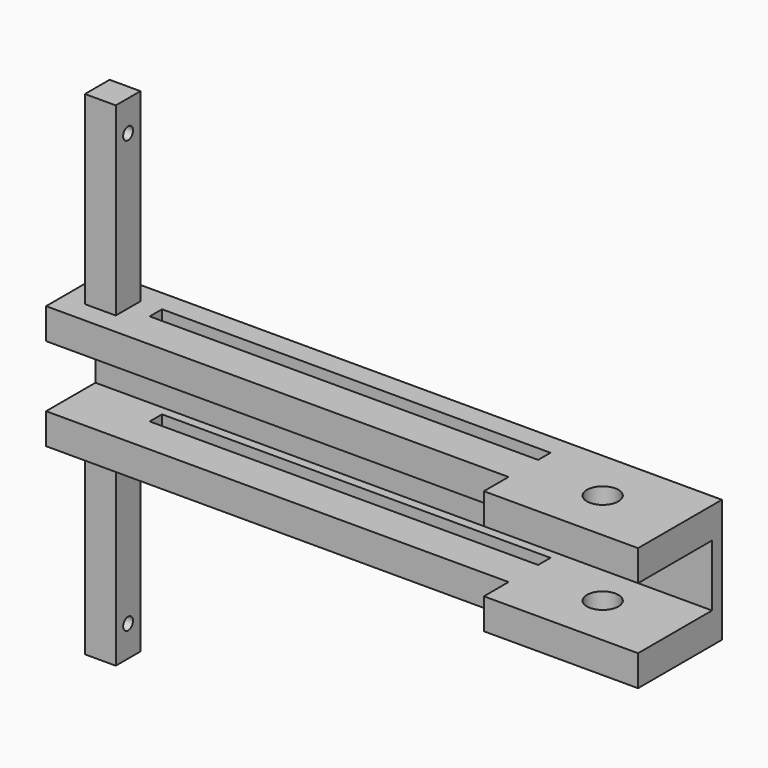
from build123d import *

# Parameters (mm, degrees)
F0_W      = 254
F0_H      = 50.8
F1_DEPTH  = 30.48
F2_W      = 254
F2_H      = 25.4
F3_DEPTH  = 25.4
F4_W      = 12.7
F4_H      = 12.7
F6_DEPTH  = 76.2
F5_W      = 12.7
F5_H      = 12.7
F7_DEPTH  = 76.2
F8_W      = 63.5
F8_H      = 12.7
F10_DEPTH = 12.7
F9_W      = 63.5
F9_H      = 12.7
F11_DEPTH = 12.7
F12_W     = 160.02
F12_H     = 6.35
F14_DEPTH = 127.001
F13_R     = 6.477
F15_DEPTH = 127.001
F16_R     = 2.54
F18_DEPTH = 25.4
F17_R     = 2.54
F19_DEPTH = 25.4


with BuildPart() as f1:
    # F0 (on Front) → F1 (new body)
    with BuildSketch(Plane.XZ):
        with Locations((-4.6371974824, 18.0667741224)):
            Rectangle(F0_W, F0_H)
    extrude(amount=F1_DEPTH)

    # F2 (on face) → F3 (cut)
    with BuildSketch(Plane.XZ.offset(30.48)):
        with Locations((-4.6371974824, 18.0667741224)):
            Rectangle(F2_W, F2_H)
    extrude(amount=-F3_DEPTH, mode=Mode.SUBTRACT)

    # F4 (on face) → F6 (join)
    with BuildSketch(Plane(origin=(0, 0, -7.3332258776), x_dir=(1, 0, 0), z_dir=(0, 0, -1))):
        with Locations((-116.3971974824, 15.24)):
            Rectangle(F4_W, F4_H)
    extrude(amount=F6_DEPTH)

    # F5 (on face) → F7 (join)
    with BuildSketch(Plane.XY.offset(43.4667741224)):
        with Locations((-116.3971974824, -15.24)):
            Rectangle(F5_W, F5_H)
    extrude(amount=F7_DEPTH)

    # F8 (on face) → F10 (join)
    with BuildSketch(Plane.XZ.offset(30.48)):
        with Locations((90.6128025176, 37.1167741224)):
            Rectangle(F8_W, F8_H)
    extrude(amount=F10_DEPTH)

    # F9 (on face) → F11 (join)
    with BuildSketch(Plane.XZ.offset(30.48)):
        with Locations((90.6128025176, -0.9832258776)):
            Rectangle(F9_W, F9_H)
    extrude(amount=F11_DEPTH)

    # F12 (on face) → F14 (cut, through all)
    with BuildSketch(Plane(origin=(0, 0, -7.3332258776), x_dir=(1, 0, 0), z_dir=(0, 0, -1))):
        with Locations((-21.1471974824, 12.065)):
            Rectangle(F12_W, F12_H)
    extrude(amount=-F14_DEPTH, mode=Mode.SUBTRACT)

    # F13 (on face) → F15 (cut, through all)
    with BuildSketch(Plane(origin=(0, 0, -7.3332258776), x_dir=(1, 0, 0), z_dir=(0, 0, -1))):
        with Locations((90.6128025176, 21.7048414052)):
            Circle(F13_R)
    extrude(amount=-F15_DEPTH, mode=Mode.SUBTRACT)

    # F16 (on face) → F18 (cut)
    with BuildSketch(Plane.YZ.offset(-110.0471974824)):
        with Locations((-15.24, -70.8332258776)):
            Circle(F16_R)
    extrude(amount=-F18_DEPTH, mode=Mode.SUBTRACT)

    # F17 (on face) → F19 (cut)
    with BuildSketch(Plane.YZ.offset(-110.0471974824)):
        with Locations((-15.24, 106.9667741224)):
            Circle(F17_R)
    extrude(amount=-F19_DEPTH, mode=Mode.SUBTRACT)


solid = f1.part
